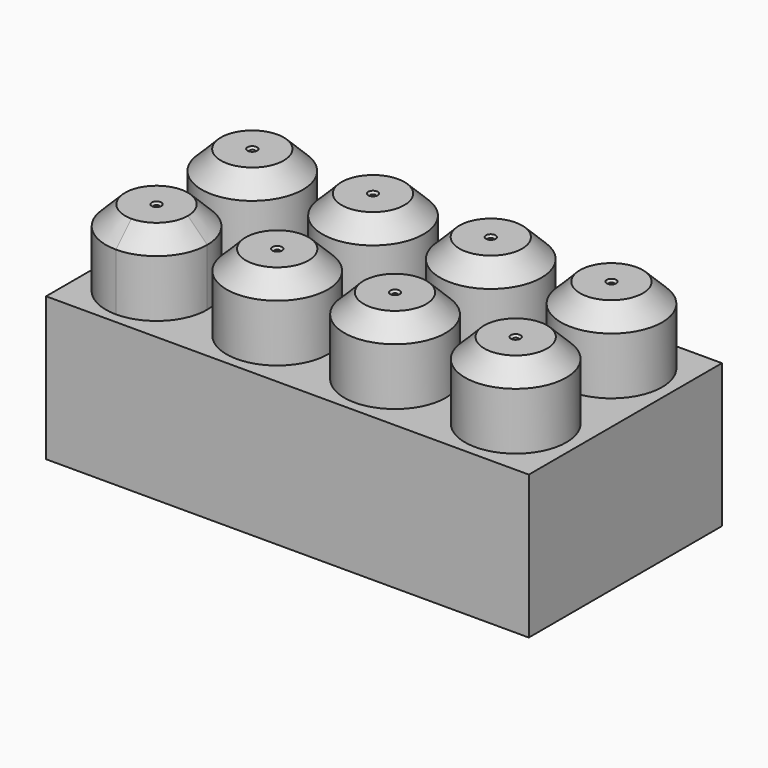
from build123d import *

# Parameters (mm, degrees)
F0_W      = 127
F0_H      = 37.7444
F1_DEPTH  = 63.5
F2_R      = 13.335
F3_DEPTH  = 20.0914
F4_SIZE   = 5.08
F5_T      = -2.54
F6_W      = 0.9144
F6_H      = 0.635
F6_W_2    = 0.635
F6_H_2    = 4.064
F6_W_3    = 2.032
F6_H_3    = 2.9464
F7_DEPTH  = 35.27044
F8_R      = 1.27
F9_R      = 1.27
F15_R     = 1.27
F10_R     = 1.27
F11_R     = 1.27
F12_R     = 1.27
F13_R     = 1.27
F14_R     = 1.27
F16_DEPTH = 0.508
F16_TAPER = 50


with BuildPart() as f1:
    # F0 (on Front) → F1 (new body)
    with BuildSketch(Plane.XZ):
        with Locations((63.5, 18.8722)):
            Rectangle(F0_W, F0_H)
    extrude(amount=F1_DEPTH)

    # F2 (on face) → F3 (join)
    with BuildSketch(Plane.XY.offset(37.7444)):
        with BuildLine():
            ThreePointArc((16.256, -60.833), (25.6852689271, -56.9272689271), (29.591, -47.498))
            ThreePointArc((29.591, -47.498), (6.8267310729, -38.0687310729), (16.256, -60.833))
        make_face()
        with Locations((16.256, -16.002)):
            Circle(F2_R)
        with Locations((48.006, -47.498)):
            Circle(F2_R)
        with Locations((48.006, -16.002)):
            Circle(F2_R)
        with Locations((110.744, -16.002)):
            Circle(F2_R)
        with Locations((78.994, -16.002)):
            Circle(F2_R)
        with Locations((78.994, -47.498)):
            Circle(F2_R)
        with Locations((110.744, -47.498)):
            Circle(F2_R)
    extrude(amount=F3_DEPTH)

    # F4
    f4_edges = [f1.edges().sort_by_distance(p)[0] for p in [
        (16.256, -34.163, 57.8358),
        (2.921, -16.002, 57.8358),
        (34.671, -16.002, 57.8358),
        (65.659, -16.002, 57.8358),
        (34.671, -47.498, 57.8358),
        (97.409, -47.498, 57.8358),
        (97.409, -16.002, 57.8358),
        (65.659, -47.498, 57.8358),
    ]]
    chamfer(f4_edges, length=F4_SIZE)

    # F5
    f5_openings = [f1.faces().sort_by_distance(p)[0] for p in [
        (63.5, -31.75, 0),
    ]]
    offset(amount=F5_T, openings=f5_openings, kind=Kind.INTERSECTION)

    # F6 (on face) → F7 (join)
    with BuildSketch(Plane(origin=(0, 0, 35.2044), x_dir=(1, 0, 0), z_dir=(0, 0, -1))):
        Polygon((95.8088, 55.3212), (95.8088, 60.96), (94.6912, 60.96), (94.6912, 55.3212), (94.6912, 54.6862), (94.6912, 39.0652), (94.6912, 38.4302), (94.6912, 32.3088), (90.7034, 32.3088), (90.0684, 32.3088), (73.4314, 32.3088), (72.7964, 32.3088), (64.0588, 32.3088), (64.0588, 38.4302), (64.0588, 39.0652), (64.0588, 54.6862), (64.0588, 55.3212), (64.0588, 60.96), (62.9412, 60.96), (62.9412, 55.3212), (62.9412, 54.6862), (62.9412, 39.0652), (62.9412, 38.4302), (62.9412, 32.3088), (55.3212, 32.3088), (54.6862, 32.3088), (38.0492, 32.3088), (37.4142, 32.3088), (32.3088, 32.3088), (32.3088, 38.4302), (32.3088, 39.0652), (32.3088, 54.6862), (32.3088, 55.3212), (32.3088, 60.96), (31.1912, 60.96), (31.1912, 55.3212), (31.1912, 54.6862), (31.1912, 39.0652), (31.1912, 38.4302), (31.1912, 32.3088), (27.2034, 32.3088), (26.5684, 32.3088), (9.9314, 32.3088), (9.2964, 32.3088), (2.54, 32.3088), (2.54, 31.1912), (9.2964, 31.1912), (9.9314, 31.1912), (26.5684, 31.1912), (27.2034, 31.1912), (31.1912, 31.1912), (31.1912, 26.1874), (31.1912, 25.5524), (31.1912, 9.9314), (31.1912, 9.2964), (31.1912, 2.54), (32.3088, 2.54), (32.3088, 9.2964), (32.3088, 9.9314), (32.3088, 25.5524), (32.3088, 26.1874), (32.3088, 31.1912), (37.4142, 31.1912), (38.0492, 31.1912), (54.6862, 31.1912), (55.3212, 31.1912), (62.9412, 31.1912), (62.9412, 23.3172), (62.9412, 22.6822), (62.9412, 9.9314), (62.9412, 9.2964), (62.9412, 2.54), (64.0588, 2.54), (64.0588, 9.2964), (64.0588, 9.9314), (64.0588, 22.6822), (64.0588, 23.3172), (64.0588, 31.1912), (72.7964, 31.1912), (73.4314, 31.1912), (90.0684, 31.1912), (90.7034, 31.1912), (94.6912, 31.1912), (94.6912, 23.3172), (94.6912, 22.6822), (94.6912, 9.9314), (94.6912, 9.2964), (94.6912, 2.54), (95.8088, 2.54), (95.8088, 9.2964), (95.8088, 9.9314), (95.8088, 22.6822), (95.8088, 23.3172), (95.8088, 31.1912), (100.9142, 31.1912), (101.5492, 31.1912), (118.1862, 31.1912), (118.8212, 31.1912), (124.46, 31.1912), (124.46, 32.3088), (118.8212, 32.3088), (118.1862, 32.3088), (101.5492, 32.3088), (100.9142, 32.3088), (95.8088, 32.3088), (95.8088, 38.4302), (95.8088, 39.0652), (95.8088, 54.6862), align=None)
        with Locations((2.9972, 38.7477)):
            Rectangle(F6_W, F6_H)
        with Locations((9.6139, 34.3408)):
            Rectangle(F6_W_2, F6_H_2)
        with Locations((26.8859, 34.3408)):
            Rectangle(F6_W_2, F6_H_2)
        with Locations((30.1752, 38.7477)):
            Rectangle(F6_W_3, F6_H)
        with Locations((2.9972, 55.0037)):
            Rectangle(F6_W, F6_H)
        with Locations((9.6139, 59.4868)):
            Rectangle(F6_W_2, F6_H_3)
        with Locations((26.8859, 59.4868)):
            Rectangle(F6_W_2, F6_H_3)
        with Locations((30.1752, 55.0037)):
            Rectangle(F6_W_3, F6_H)
        with Locations((9.6139, 29.1592)):
            Rectangle(F6_W_2, F6_H_2)
        with Locations((2.9972, 25.8699)):
            Rectangle(F6_W, F6_H)
        with Locations((26.8859, 29.1592)):
            Rectangle(F6_W_2, F6_H_2)
        with Locations((30.1752, 25.8699)):
            Rectangle(F6_W_3, F6_H)
        with Locations((2.9972, 9.6139)):
            Rectangle(F6_W, F6_H)
        with Locations((8.9789, 4.0132)):
            Rectangle(F6_W_2, F6_H_3)
        with Locations((26.8859, 4.0132)):
            Rectangle(F6_W_2, F6_H_3)
        with Locations((30.1752, 9.6139)):
            Rectangle(F6_W_3, F6_H)
        with Locations((33.3248, 9.6139)):
            Rectangle(F6_W_3, F6_H)
        with Locations((37.7317, 4.0132)):
            Rectangle(F6_W_2, F6_H_3)
        with Locations((37.7317, 29.1592)):
            Rectangle(F6_W_2, F6_H_2)
        with Locations((33.3248, 25.8699)):
            Rectangle(F6_W_3, F6_H)
        with Locations((55.0037, 29.1592)):
            Rectangle(F6_W_2, F6_H_2)
        with Locations((55.6387, 4.0132)):
            Rectangle(F6_W_2, F6_H_3)
        with Locations((61.9252, 9.6139)):
            Rectangle(F6_W_3, F6_H)
        with Locations((61.9252, 22.9997)):
            Rectangle(F6_W_3, F6_H)
        with Locations((65.0748, 22.9997)):
            Rectangle(F6_W_3, F6_H)
        with Locations((65.0748, 9.6139)):
            Rectangle(F6_W_3, F6_H)
        with Locations((72.4789, 4.0132)):
            Rectangle(F6_W_2, F6_H_3)
        with Locations((73.1139, 29.1592)):
            Rectangle(F6_W_2, F6_H_2)
        with Locations((90.3859, 29.1592)):
            Rectangle(F6_W_2, F6_H_2)
        with Locations((93.6752, 22.9997)):
            Rectangle(F6_W_3, F6_H)
        with Locations((93.6752, 9.6139)):
            Rectangle(F6_W_3, F6_H)
        with Locations((90.3859, 4.0132)):
            Rectangle(F6_W_2, F6_H_3)
        with Locations((96.8248, 22.9997)):
            Rectangle(F6_W_3, F6_H)
        with Locations((101.2317, 29.1592)):
            Rectangle(F6_W_2, F6_H_2)
        with Locations((118.5037, 29.1592)):
            Rectangle(F6_W_2, F6_H_2)
        with Locations((96.8248, 9.6139)):
            Rectangle(F6_W_3, F6_H)
        with Locations((101.2317, 4.0132)):
            Rectangle(F6_W_2, F6_H_3)
        with Locations((119.1387, 4.0132)):
            Rectangle(F6_W_2, F6_H_3)
        with Locations((124.0028, 9.6139)):
            Rectangle(F6_W, F6_H)
        with Locations((124.0028, 22.9997)):
            Rectangle(F6_W, F6_H)
        with Locations((101.2317, 34.3408)):
            Rectangle(F6_W_2, F6_H_2)
        with Locations((96.8248, 38.7477)):
            Rectangle(F6_W_3, F6_H)
        with Locations((118.5037, 34.3408)):
            Rectangle(F6_W_2, F6_H_2)
        with Locations((124.0028, 39.3827)):
            Rectangle(F6_W, F6_H)
        with Locations((124.0028, 55.0037)):
            Rectangle(F6_W, F6_H)
        with Locations((96.8248, 55.0037)):
            Rectangle(F6_W_3, F6_H)
        with Locations((101.2317, 59.4868)):
            Rectangle(F6_W_2, F6_H_3)
        with Locations((118.5037, 59.4868)):
            Rectangle(F6_W_2, F6_H_3)
        with Locations((90.3859, 59.4868)):
            Rectangle(F6_W_2, F6_H_3)
        with Locations((93.6752, 55.0037)):
            Rectangle(F6_W_3, F6_H)
        with Locations((93.6752, 38.7477)):
            Rectangle(F6_W_3, F6_H)
        with Locations((90.3859, 34.3408)):
            Rectangle(F6_W_2, F6_H_2)
        with Locations((73.1139, 34.3408)):
            Rectangle(F6_W_2, F6_H_2)
        with Locations((73.1139, 59.4868)):
            Rectangle(F6_W_2, F6_H_3)
        with Locations((61.9252, 55.0037)):
            Rectangle(F6_W_3, F6_H)
        with Locations((61.9252, 38.7477)):
            Rectangle(F6_W_3, F6_H)
        with Locations((55.0037, 34.3408)):
            Rectangle(F6_W_2, F6_H_2)
        with Locations((55.0037, 59.4868)):
            Rectangle(F6_W_2, F6_H_3)
        with Locations((65.0748, 38.7477)):
            Rectangle(F6_W_3, F6_H)
        with Locations((65.0748, 55.0037)):
            Rectangle(F6_W_3, F6_H)
        with Locations((33.3248, 55.0037)):
            Rectangle(F6_W_3, F6_H)
        with Locations((37.7317, 59.4868)):
            Rectangle(F6_W_2, F6_H_3)
        with Locations((33.3248, 38.7477)):
            Rectangle(F6_W_3, F6_H)
        with Locations((37.7317, 34.3408)):
            Rectangle(F6_W_2, F6_H_2)
    extrude(amount=F7_DEPTH)

    # F8 (on face) + F9 (on face) + F15 (on face) + F10 (on face) + F11 (on face) + F12 (on face) + F13 (on face) + F14 (on face) → F16 (cut)
    with BuildSketch(Plane.XY.offset(57.8358)):
        with Locations((16.256, -16.002)):
            Circle(F8_R)
    with BuildSketch(Plane.XY.offset(57.8358)):
        with Locations((48.006, -16.002)):
            Circle(F9_R)
    with BuildSketch(Plane.XY.offset(57.8358)):
        with Locations((78.994, -16.002)):
            Circle(F15_R)
    with BuildSketch(Plane.XY.offset(57.8358)):
        with Locations((110.744, -16.002)):
            Circle(F10_R)
    with BuildSketch(Plane.XY.offset(57.8358)):
        with Locations((16.256, -47.498)):
            Circle(F11_R)
    with BuildSketch(Plane.XY.offset(57.8358)):
        with Locations((48.006, -47.498)):
            Circle(F12_R)
    with BuildSketch(Plane.XY.offset(57.8358)):
        with Locations((78.994, -47.498)):
            Circle(F13_R)
    with BuildSketch(Plane.XY.offset(57.8358)):
        with Locations((110.744, -47.498)):
            Circle(F14_R)
    extrude(amount=-F16_DEPTH, taper=F16_TAPER, mode=Mode.SUBTRACT)


solid = f1.part
